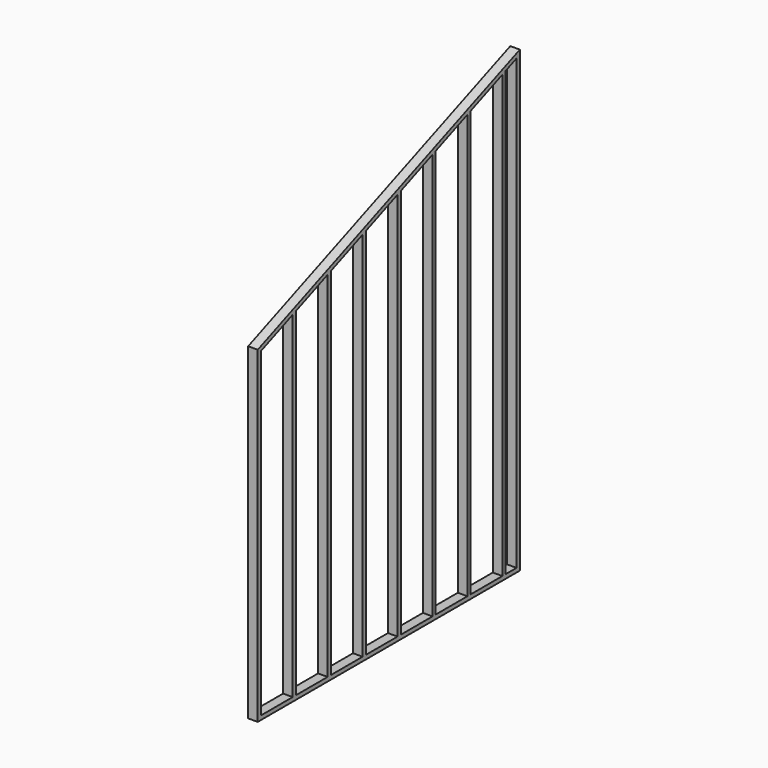
from build123d import *

# Parameters (mm, degrees)
F1_DEPTH = 88.9
F3_DEPTH = 88.901
F4_SCALE = 0.0114810563


with BuildPart() as f1:
    # F0 (on Right) → F1 (new body)
    with BuildSketch(Plane.YZ):
        Polygon((0, 3048), (0, 0), (3048, 0), (3048, 4267.2), align=None)
    extrude(amount=F1_DEPTH)

    # F2 (on face) → F3 (cut, through all)
    with BuildSketch(Plane.YZ.offset(88.9)):
        Polygon((406.4, 3169.5250441696), (38.1, 3022.2050441696), (38.1, 38.1), (406.4, 38.1), align=None)
        Polygon((812.8, 3332.0850441696), (444.5, 3184.7650441696), (444.5, 38.1), (812.8, 38.1), align=None)
        Polygon((1219.2, 3494.6450441696), (850.9, 3347.3250441696), (850.9, 38.1), (1219.2, 38.1), align=None)
        Polygon((1625.6, 3657.2050441696), (1257.3, 3509.8850441696), (1257.3, 38.1), (1625.6, 38.1), align=None)
        Polygon((2032, 3819.7650441696), (1663.7, 3672.4450441696), (1663.7, 38.1), (2032, 38.1), align=None)
        Polygon((2438.4, 3982.3250441696), (2070.1, 3835.0050441696), (2070.1, 38.1), (2438.4, 38.1), align=None)
        Polygon((2844.8, 4144.8850441696), (2476.5, 3997.5650441696), (2476.5, 38.1), (2844.8, 38.1), align=None)
        Polygon((3009.9, 4210.9250441696), (2882.9, 4160.1250441696), (2882.9, 38.1), (3009.9, 38.1), align=None)
    extrude(amount=-F3_DEPTH, mode=Mode.SUBTRACT)


with BuildPart() as f1_1:
    # F4: moved
    add(f1.part.scale(F4_SCALE))


solid = f1_1.part
